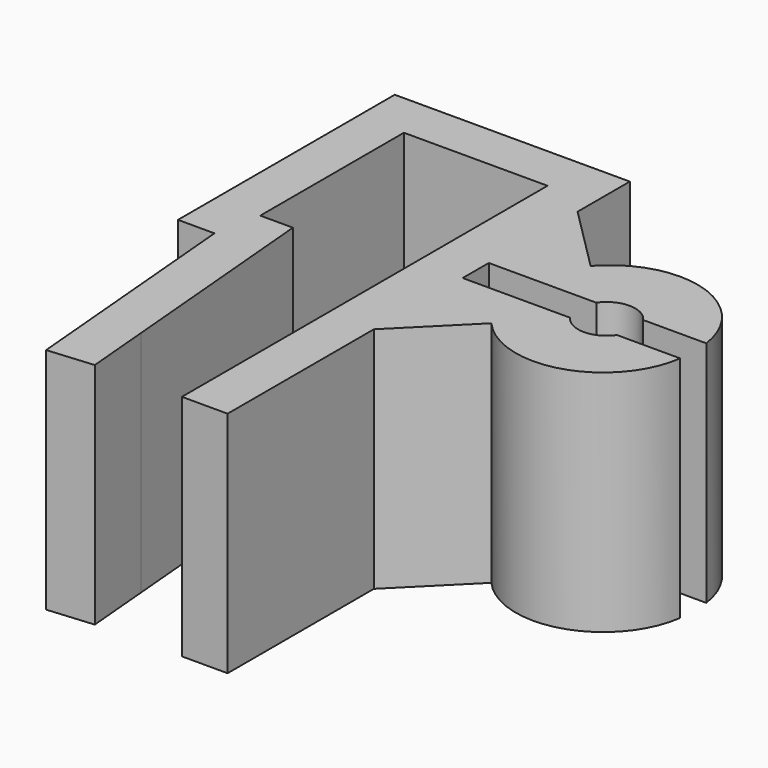
from build123d import *

# Parameters (mm, degrees)
F1_DEPTH = 7


with BuildPart() as f1:
    # F0 (on Top) → F1 (new body)
    with BuildSketch(Plane.XY):
        with BuildLine():
            Line((-25.475699, 40.335676), (-25.475699, 45.835676))
            Line((-25.475699, 45.835676), (-21.075699, 45.835676))
            Line((-21.075699, 45.835676), (-21.075699, 33.835676))
            Line((-21.075699, 33.835676), (-21.075699, 31.835676))
            Line((-21.075699, 31.835676), (-19.6757, 31.835676))
            Line((-19.6757, 31.835676), (-19.6757, 33.835676))
            Line((-19.6757, 33.835676), (-19.6757, 37.435679))
            Line((-19.6757, 37.435679), (-17.6757, 39.435679))
            ThreePointArc((-17.6757, 39.435679), (-14.89494, 38.638502), (-13.013308, 40.835677))
            Line((-13.013308, 40.835677), (-14.946623, 40.835677))
            ThreePointArc((-14.946623, 40.835677), (-15.664693, 40.460677), (-16.382763, 40.835677))
            Line((-16.382763, 40.835677), (-19.6757, 40.835677))
            Line((-19.6757, 40.835677), (-19.6757, 41.835677))
            Line((-19.6757, 41.835677), (-16.382763, 41.835677))
            ThreePointArc((-16.382763, 41.835677), (-15.664693, 42.210677), (-14.946623, 41.835677))
            Line((-14.946623, 41.835677), (-13.013308, 41.835677))
            ThreePointArc((-13.013308, 41.835677), (-13.230669, 42.582711), (-13.653686, 43.235675))
            ThreePointArc((-13.653686, 43.235675), (-15.664693, 44.145927), (-17.6757, 43.235675))
            Line((-17.6757, 43.235675), (-19.6757, 45.235675))
            Line((-19.6757, 45.235675), (-19.6757, 47.235675))
            Line((-19.6757, 47.235675), (-26.875699, 47.235675))
            Line((-26.875699, 47.235675), (-26.875699, 38.935676))
            Line((-26.875699, 38.935676), (-25.758563, 38.935676))
            Line((-25.758563, 38.935676), (-25.299585, 33.689533))
            Line((-25.299585, 33.689533), (-25.125273, 31.697143))
            Line((-25.125273, 31.697143), (-23.730601, 31.819161))
            Line((-23.730601, 31.819161), (-23.904913, 33.811551))
            Line((-23.904913, 33.811551), (-24.475699, 40.335676))
            Line((-24.475699, 40.335676), (-25.475699, 40.335676))
        make_face()
    extrude(amount=F1_DEPTH)


solid = f1.part
